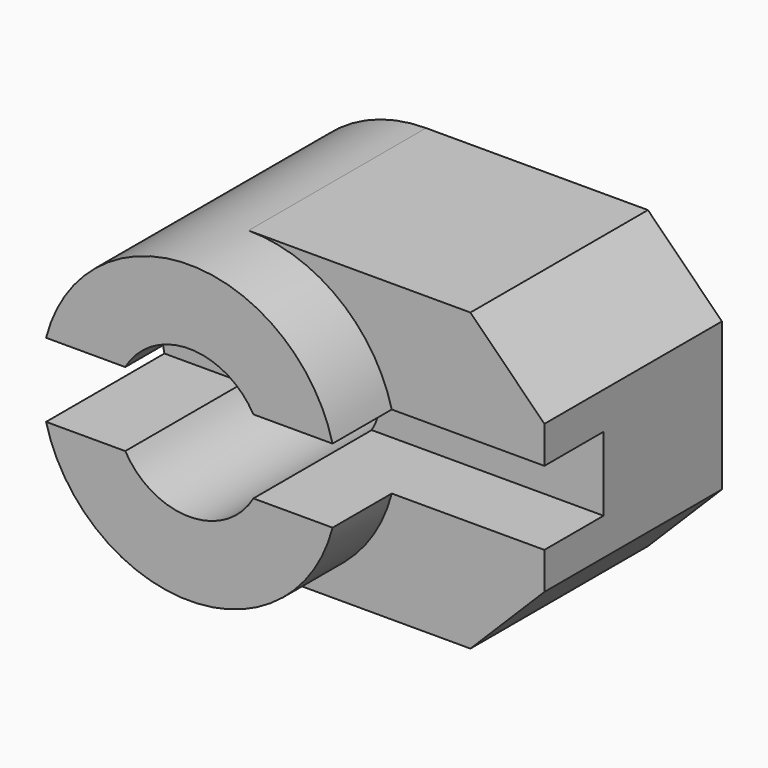
from build123d import *

# Parameters (mm, degrees)
F0_R          = 10
F1_DEPTH      = 10
F3_DEPTH      = 10
F3_DEPTH_BACK = 5
F4_R          = 5
F5_DEPTH      = 20.001
F7_DEPTH      = 10


with BuildPart() as f1:
    # F0 (on Front) → F1 (new body, symmetric)
    with BuildSketch(Plane.XZ):
        Circle(F0_R)
    extrude(amount=F1_DEPTH, both=True)

    # F2 (on Front) → F3 (join, two sides)
    with BuildSketch(Plane.XZ) as f3_sk:
        Polygon((15, 10), (0, 10), (0, -10), (15, -10), (20, -5), (20, 0), (20, 5), align=None)
    extrude(amount=-F3_DEPTH)
    extrude(f3_sk.sketch, amount=F3_DEPTH_BACK)

    # F4 (on face) → F5 (cut, through all)
    with BuildSketch(Plane.XZ.offset(10)):
        Circle(F4_R)
    extrude(amount=-F5_DEPTH, mode=Mode.SUBTRACT)

    # F6 (on Front) → F7 (cut)
    with BuildSketch(Plane.XZ):
        Polygon((-10, 2.5), (-10, 0), (-10, -2.5), (20, -2.5), (20, 0), (20, 2.5), align=None)
    extrude(amount=F7_DEPTH, mode=Mode.SUBTRACT)


solid = f1.part
